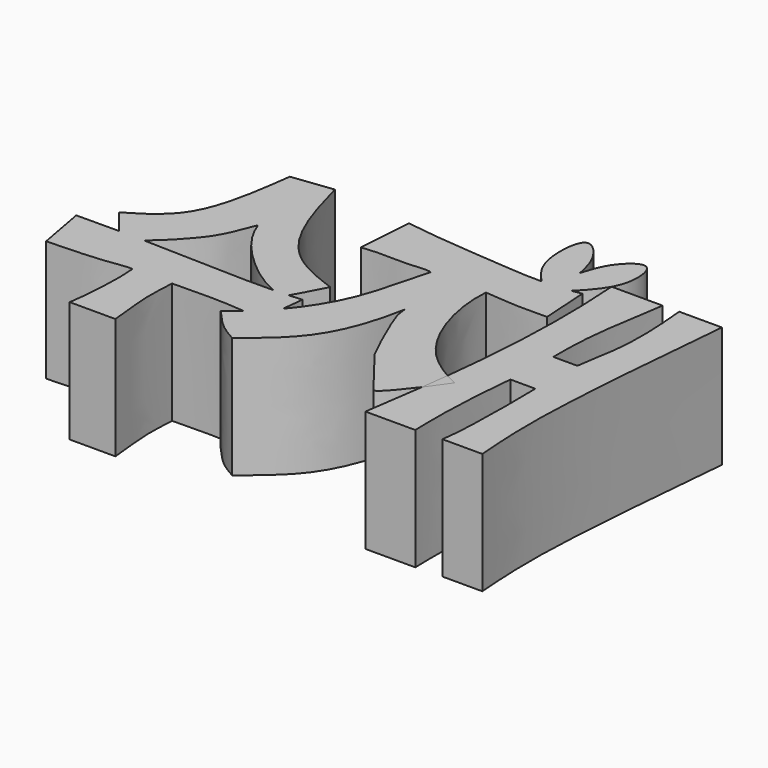
from build123d import *

# Parameters (mm, degrees)
F1_DEPTH = 17.78
F2_DEPTH = 17.78


with BuildPart() as f1:
    # F0 (on Top) → F1 (new body)
    with BuildSketch(Plane.XY):
        with BuildLine():
            add(Edge.make_bspline(
                [(30.1272850484, 24.53651838), (32.1749602214, 24.53651838), (35.4721196336, 24.5288582222), (37.0415447147, 24.5306448541), (37.63520873, 24.5306448541)],
                knots=[0, 0, 0, 0, 0.621748338, 1, 1, 1, 1], degree=3))
            add(Edge.make_bspline(
                [(30.1272850484, 24.53651838), (30.811116272, 15.0950465232), (30.3203895407, 5.2561454637), (29.3599372909, -3.3921086658), (29.2314145439, -4.4804229901)],
                knots=[0, 0, 0, 0, 0.5562786202, 0.6382430546, 0.6382430546, 0.6382430546, 0.6382430546], degree=3))
            add(Edge.make_bspline(
                [(29.2314145439, -4.4804229901), (29.780363465, -4.7892651681), (30.3633411367, -5.0912623112), (30.9840589762, -5.3905299865)],
                knots=[0.9246071669, 0.9246071669, 0.9246071669, 0.9246071669, 1, 1, 1, 1], degree=3))
            add(Edge.make_bspline(
                [(30.9840589762, -5.3905299865), (30.3043471664, -6.3817435511), (29.5085244613, -7.4958312117), (28.7172894958, -8.5481769485)],
                knots=[0, 0, 0, 0, 0.2536640393, 0.2536640393, 0.2536640393, 0.2536640393], degree=3))
            add(Edge.make_bspline(
                [(28.7172894958, -8.5481769485), (28.2863419012, -11.7642790395), (27.8368482552, -14.7278435364), (27.4477060884, -17.356655886)],
                knots=[0.7432613847, 0.7432613847, 0.7432613847, 0.7432613847, 1, 1, 1, 1], degree=3))
            add(Edge.make_bspline(
                [(27.4477060884, -17.356655886), (29.5677551255, -17.356655886), (31.7741736215, -17.356655886), (34.1498553388, -17.356655886), (34.7825475037, -17.356655886)],
                knots=[0, 0, 0, 0, 0.5717159331, 1, 1, 1, 1], degree=3))
            add(Edge.make_bspline(
                [(35.4626663029, -0.7367165526), (35.1330207393, -3.791788217), (34.6314573549, -10.6778341452), (34.7385927112, -16.0644711081), (34.7825475037, -17.356655886)],
                knots=[0, 0, 0, 0, 0.5615304049, 1, 1, 1, 1], degree=3))
            add(Edge.make_bspline(
                [(35.4626663029, -0.7367165526), (36.7133505642, -0.7367165526), (37.8787070513, -0.7367165526), (39.1293913126, -0.7367165526)],
                knots=[0, 0, 0, 0, 3.6667250097, 3.6667250097, 3.6667250097, 3.6667250097], degree=3))
            add(Edge.make_bspline(
                [(39.1293913126, -0.7367165526), (39.1914916961, -2.9337356019), (39.2133141662, -10.3080885174), (38.9353036042, -15.1444618657), (38.6552736163, -17.2017738223)],
                knots=[0, 0, 0, 0, 0.5336657709, 1, 1, 1, 1], degree=3))
            add(Edge.make_bspline(
                [(44.5176064968, -17.2017738223), (42.5022592147, -17.2017738223), (40.6706208984, -17.2017738223), (38.6552736163, -17.2017738223)],
                knots=[0, 0, 0, 0, 5.8623328805, 5.8623328805, 5.8623328805, 5.8623328805], degree=3))
            add(Edge.make_bspline(
                [(46.3429316878, 24.5404560119), (45.306609613, 13.2394284871), (43.6175321716, -4.9877859152), (44.2709598224, -14.0714566897), (44.5176064968, -17.2017738223)],
                knots=[0, 0, 0, 0, 0.6213566781, 1, 1, 1, 1], degree=3))
            add(Edge.make_bspline(
                [(40.0557033718, 24.5404560119), (42.1514461438, 24.5404560119), (44.2471889158, 24.5404560119), (46.3429316878, 24.5404560119)],
                knots=[0, 0, 0, 0, 6.2872283161, 6.2872283161, 6.2872283161, 6.2872283161], degree=3))
            add(Edge.make_bspline(
                [(39.3508151174, 6.7305080593), (39.5647616463, 8.8553203247), (40.8132079745, 13.7951512156), (40.4463631521, 20.6380142763), (40.0557033718, 24.5404560119)],
                knots=[0, 0, 0, 0, 0.4437567956, 1, 1, 1, 1], degree=3))
            add(Edge.make_bspline(
                [(35.7966199517, 6.7305080593), (37.3515238365, 6.7305080593), (37.7959112326, 6.7305080593), (39.3508151174, 6.7305080593)],
                knots=[0, 0, 0, 0, 3.5541951656, 3.5541951656, 3.5541951656, 3.5541951656], degree=3))
            add(Edge.make_bspline(
                [(37.63520873, 24.5306448541), (36.9642266283, 20.3846086374), (35.7862088633, 13.2144197203), (35.7945027483, 8.668127237), (35.7966199517, 6.7305080593)],
                knots=[0, 0, 0, 0, 0.5773275732, 1, 1, 1, 1], degree=3))
        make_face()
    extrude(amount=F1_DEPTH)


with BuildPart() as f1b:
    # F0 (on Top) → F1, piece 2 (new body)
    with BuildSketch(Plane.XY):
        with BuildLine():
            add(Edge.make_bspline(
                [(22.9997197935, 20.5607311229), (21.8643520208, 21.7671612932), (19.5707930826, 24.4397599996), (20.1568033566, 33.2643974162), (24.316272975, 28.9319082666), (24.864816953, 26.3222796366), (25.1532198865, 24.9495513026)],
                knots=[0, 0, 0, 0, 0.2657957689, 0.5473581741, 0.7603665256, 1, 1, 1, 1], degree=3))
            add(Edge.make_bspline(
                [(22.9997197935, 20.5607311229), (24.2767497098, 20.5816939502), (25.637388711, 20.671515774), (27.1643721818, 20.8693982873)],
                knots=[0.8000001159, 0.8000001159, 0.8000001159, 0.8000001159, 0.9536848019, 0.9536848019, 0.9536848019, 0.9536848019], degree=3))
            add(Edge.make_bspline(
                [(30.1272850484, 24.53651838), (29.3864561599, 23.1720667261), (28.2853627762, 21.9912698087), (27.1643721818, 20.8693982873)],
                knots=[0.7956426457, 0.7956426457, 0.7956426457, 0.7956426457, 1, 1, 1, 1], degree=3))
            add(Edge.make_bspline(
                [(25.1532198865, 24.9495513026), (25.5882914232, 26.3685695622), (26.4083703012, 29.061301626), (30.6803957253, 32.5194582175), (31.4140726968, 27.5422690203), (30.4650451142, 25.158601681), (30.1272850484, 24.53651838)],
                knots=[0, 0, 0, 0, 0.2440787862, 0.4592765496, 0.7024716659, 0.7956426457, 0.7956426457, 0.7956426457, 0.7956426457], degree=3))
        make_face()
        with BuildLine():
            add(Edge.make_bspline(
                [(2.1270404419, 22.3167211892), (7.1251042454, 21.5382039608), (14.8121815343, 21.0689982917), (20.6635132326, 20.5223815948), (22.9997197935, 20.5607311229)],
                knots=[0, 0, 0, 0, 0.5188483847, 0.8000001159, 0.8000001159, 0.8000001159, 0.8000001159], degree=3))
            add(Edge.make_bspline(
                [(2.1270404419, 22.3167211892), (1.9242271786, 19.6125391704), (1.7239165803, 16.9011404117), (1.5211033169, 14.1969583929)],
                knots=[0, 0, 0, 0, 8.1423404294, 8.1423404294, 8.1423404294, 8.1423404294], degree=3))
            add(Edge.make_bspline(
                [(1.5211033169, 14.1969583929), (4.367311452, 14.5447534044), (8.0800371714, 14.0486820153), (10.5993056978, 14.6787226066), (11.6617875174, 14.3997715786)],
                knots=[0, 0, 0, 0, 0.5878873191, 1, 1, 1, 1], degree=3))
            add(Edge.make_bspline(
                [(11.6617875174, 14.3997715786), (10.4663553016, 10.4233661169), (9.5923082938, 4.4477422371), (5.6462828988, -1.4688155198), (4.0827341983, -3.3198836639)],
                knots=[0, 0, 0, 0, 0.4823393198, 0.7379080988, 0.7379080988, 0.7379080988, 0.7379080988], degree=3))
            add(Edge.make_bspline(
                [(4.5740278438, -6.958249025), (4.419452015, -6.0852170326), (3.9740949058, -6.1434175976), (4.0092763041, -4.3297927321), (4.082734196, -3.3198836631)],
                knots=[0, 0, 0, 0, 0.3333747157, 0.658416056, 0.658416056, 0.658416056, 0.658416056], degree=3))
            add(Edge.make_bspline(
                [(0.9095052206, -6.5580439901), (2.1502910323, -6.6735018222), (3.3621594381, -6.8158754236), (4.5740278438, -6.958249025)],
                knots=[0.7270060703, 0.7270060703, 0.7270060703, 0.7270060703, 1, 1, 1, 1], degree=3))
            add(Edge.make_bspline(
                [(0.9095052165, -6.5580439803), (0.2284314514, -7.1524544945), (-0.46603873, -7.6981773109), (-1.1636908166, -8.1838443875)],
                knots=[0.9002166864, 0.9002166864, 0.9002166864, 0.9002166864, 1, 1, 1, 1], degree=3))
            add(Edge.make_bspline(
                [(-1.1636908166, -8.1838443875), (0.7968414575, -10.4147948635), (1.4997676481, -11.2263904884), (4.0717255324, -12.6299699768)],
                knots=[0, 0, 0, 0, 6.8685964435, 6.8685964435, 6.8685964435, 6.8685964435], degree=3))
            add(Edge.make_bspline(
                [(15.1096209884, 5.2731558681), (14.3114498251, 0.8357257031), (11.8446963594, -6.3046432304), (7.0377514361, -10.2447312292), (4.0717255324, -12.6299699768)],
                knots=[0, 0, 0, 0, 0.5219497134, 1, 1, 1, 1], degree=3))
            add(Edge.make_bspline(
                [(19.4002054632, -5.6091686711), (17.8599213122, -2.7050202189), (14.9657533393, 4.177525372), (15.3186405826, 4.0844337823), (15.1096209884, 5.2731558681)],
                knots=[0, 0, 0, 0, 0.7036638866, 1, 1, 1, 1], degree=3))
            add(Edge.make_bspline(
                [(24.7701666967, -12.5347407851), (22.3988490613, -9.5034350966), (21.8089376754, -8.6869927634), (19.4002054632, -5.6091686711)],
                knots=[0.0913803455, 0.0913803455, 0.0913803455, 0.0913803455, 8.8844771075, 8.8844771075, 8.8844771075, 8.8844771075], degree=3))
            add(Edge.make_bspline(
                [(24.8446781188, -12.6299699768), (24.8196458932, -12.5979843594), (24.7948100994, -12.5662429702), (24.7701666967, -12.5347407851)],
                knots=[0, 0, 0, 0, 0.0913803455, 0.0913803455, 0.0913803455, 0.0913803455], degree=3))
            add(Edge.make_bspline(
                [(28.7172894958, -8.5481769485), (26.97334449, -10.8676309313), (25.2516865756, -12.8871446376), (24.8446781188, -12.6299699768)],
                knots=[0.2536640393, 0.2536640393, 0.2536640393, 0.2536640393, 0.8127598248, 0.8127598248, 0.8127598248, 0.8127598248], degree=3))
            add(Edge.make_bspline(
                [(29.2314145439, -4.4804229901), (29.0667425816, -5.8748442862), (28.8935676013, -7.2326379111), (28.7172894958, -8.5481769485)],
                knots=[0.6382430546, 0.6382430546, 0.6382430546, 0.6382430546, 0.7432613847, 0.7432613847, 0.7432613847, 0.7432613847], degree=3))
            add(Edge.make_bspline(
                [(19.7561098941, 14.3997715786), (19.4401530406, 9.9336833065), (21.8013218503, 1.3896914759), (26.3209553964, -2.8429800375), (29.2314145439, -4.4804229901)],
                knots=[0, 0, 0, 0, 0.5248837096, 0.9246071669, 0.9246071669, 0.9246071669, 0.9246071669], degree=3))
            add(Edge.make_bspline(
                [(29.0252286941, 14.0444654971), (26.369634742, 14.0056241202), (25.009346241, 13.9850825551), (21.9340127746, 14.2134256329), (19.7561098941, 14.3997715786)],
                knots=[0, 0, 0, 0, 0.4861106295, 1, 1, 1, 1], degree=3))
            add(Edge.make_bspline(
                [(28.5924978404, 21.0788183989), (28.7953125783, 17.9014034403), (28.8224139561, 17.2218804558), (29.0252286941, 14.0444654971)],
                knots=[0, 0, 0, 0, 7.047650441, 7.047650441, 7.047650441, 7.047650441], degree=3))
            add(Edge.make_bspline(
                [(27.1643721818, 20.8693982873), (27.6245516819, 20.9290331673), (28.0998387387, 20.9984822178), (28.5924978404, 21.0788183989)],
                knots=[0.9536848019, 0.9536848019, 0.9536848019, 0.9536848019, 1, 1, 1, 1], degree=3))
            add(Edge.make_bspline(
                [(22.9997197935, 20.5607311229), (24.2767497098, 20.5816939502), (25.637388711, 20.671515774), (27.1643721818, 20.8693982873)],
                knots=[0.8000001159, 0.8000001159, 0.8000001159, 0.8000001159, 0.9536848019, 0.9536848019, 0.9536848019, 0.9536848019], degree=3))
        make_face()
        with BuildLine():
            add(Edge.make_bspline(
                [(2.1270404419, 22.3167211892), (7.1251042454, 21.5382039608), (14.8121815343, 21.0689982917), (20.6635132326, 20.5223815948), (22.9997197935, 20.5607311229)],
                knots=[0, 0, 0, 0, 0.5188483847, 0.8000001159, 0.8000001159, 0.8000001159, 0.8000001159], degree=3))
            add(Edge.make_bspline(
                [(2.1270404419, 22.3167211892), (1.9242271786, 19.6125391704), (1.7239165803, 16.9011404117), (1.5211033169, 14.1969583929)],
                knots=[0, 0, 0, 0, 8.1423404294, 8.1423404294, 8.1423404294, 8.1423404294], degree=3))
            add(Edge.make_bspline(
                [(1.5211033169, 14.1969583929), (4.367311452, 14.5447534044), (8.0800371714, 14.0486820153), (10.5993056978, 14.6787226066), (11.6617875174, 14.3997715786)],
                knots=[0, 0, 0, 0, 0.5878873191, 1, 1, 1, 1], degree=3))
            add(Edge.make_bspline(
                [(11.6617875174, 14.3997715786), (10.4663553016, 10.4233661169), (9.5923082938, 4.4477422371), (5.6462828988, -1.4688155198), (4.0827341983, -3.3198836639)],
                knots=[0, 0, 0, 0, 0.4823393198, 0.7379080988, 0.7379080988, 0.7379080988, 0.7379080988], degree=3))
            add(Edge.make_bspline(
                [(4.5740278438, -6.958249025), (4.419452015, -6.0852170326), (3.9740949058, -6.1434175976), (4.0092763041, -4.3297927321), (4.082734196, -3.3198836631)],
                knots=[0, 0, 0, 0, 0.3333747157, 0.658416056, 0.658416056, 0.658416056, 0.658416056], degree=3))
            add(Edge.make_bspline(
                [(0.9095052206, -6.5580439901), (2.1502910323, -6.6735018222), (3.3621594381, -6.8158754236), (4.5740278438, -6.958249025)],
                knots=[0.7270060703, 0.7270060703, 0.7270060703, 0.7270060703, 1, 1, 1, 1], degree=3))
            add(Edge.make_bspline(
                [(0.9095052165, -6.5580439803), (0.2284314514, -7.1524544945), (-0.46603873, -7.6981773109), (-1.1636908166, -8.1838443875)],
                knots=[0.9002166864, 0.9002166864, 0.9002166864, 0.9002166864, 1, 1, 1, 1], degree=3))
            add(Edge.make_bspline(
                [(-1.1636908166, -8.1838443875), (0.7968414575, -10.4147948635), (1.4997676481, -11.2263904884), (4.0717255324, -12.6299699768)],
                knots=[0, 0, 0, 0, 6.8685964435, 6.8685964435, 6.8685964435, 6.8685964435], degree=3))
            add(Edge.make_bspline(
                [(15.1096209884, 5.2731558681), (14.3114498251, 0.8357257031), (11.8446963594, -6.3046432304), (7.0377514361, -10.2447312292), (4.0717255324, -12.6299699768)],
                knots=[0, 0, 0, 0, 0.5219497134, 1, 1, 1, 1], degree=3))
            add(Edge.make_bspline(
                [(19.4002054632, -5.6091686711), (17.8599213122, -2.7050202189), (14.9657533393, 4.177525372), (15.3186405826, 4.0844337823), (15.1096209884, 5.2731558681)],
                knots=[0, 0, 0, 0, 0.7036638866, 1, 1, 1, 1], degree=3))
            add(Edge.make_bspline(
                [(24.7701666967, -12.5347407851), (22.3988490613, -9.5034350966), (21.8089376754, -8.6869927634), (19.4002054632, -5.6091686711)],
                knots=[0.0913803455, 0.0913803455, 0.0913803455, 0.0913803455, 8.8844771075, 8.8844771075, 8.8844771075, 8.8844771075], degree=3))
            add(Edge.make_bspline(
                [(24.8446781188, -12.6299699768), (24.8196458932, -12.5979843594), (24.7948100994, -12.5662429702), (24.7701666967, -12.5347407851)],
                knots=[0, 0, 0, 0, 0.0913803455, 0.0913803455, 0.0913803455, 0.0913803455], degree=3))
            add(Edge.make_bspline(
                [(28.7172894958, -8.5481769485), (26.97334449, -10.8676309313), (25.2516865756, -12.8871446376), (24.8446781188, -12.6299699768)],
                knots=[0.2536640393, 0.2536640393, 0.2536640393, 0.2536640393, 0.8127598248, 0.8127598248, 0.8127598248, 0.8127598248], degree=3))
            add(Edge.make_bspline(
                [(29.2314145439, -4.4804229901), (29.0667425816, -5.8748442862), (28.8935676013, -7.2326379111), (28.7172894958, -8.5481769485)],
                knots=[0.6382430546, 0.6382430546, 0.6382430546, 0.6382430546, 0.7432613847, 0.7432613847, 0.7432613847, 0.7432613847], degree=3))
            add(Edge.make_bspline(
                [(19.7561098941, 14.3997715786), (19.4401530406, 9.9336833065), (21.8013218503, 1.3896914759), (26.3209553964, -2.8429800375), (29.2314145439, -4.4804229901)],
                knots=[0, 0, 0, 0, 0.5248837096, 0.9246071669, 0.9246071669, 0.9246071669, 0.9246071669], degree=3))
            add(Edge.make_bspline(
                [(29.0252286941, 14.0444654971), (26.369634742, 14.0056241202), (25.009346241, 13.9850825551), (21.9340127746, 14.2134256329), (19.7561098941, 14.3997715786)],
                knots=[0, 0, 0, 0, 0.4861106295, 1, 1, 1, 1], degree=3))
            add(Edge.make_bspline(
                [(28.5924978404, 21.0788183989), (28.7953125783, 17.9014034403), (28.8224139561, 17.2218804558), (29.0252286941, 14.0444654971)],
                knots=[0, 0, 0, 0, 7.047650441, 7.047650441, 7.047650441, 7.047650441], degree=3))
            add(Edge.make_bspline(
                [(27.1643721818, 20.8693982873), (27.6245516819, 20.9290331673), (28.0998387387, 20.9984822178), (28.5924978404, 21.0788183989)],
                knots=[0.9536848019, 0.9536848019, 0.9536848019, 0.9536848019, 1, 1, 1, 1], degree=3))
            add(Edge.make_bspline(
                [(22.9997197935, 20.5607311229), (24.2767497098, 20.5816939502), (25.637388711, 20.671515774), (27.1643721818, 20.8693982873)],
                knots=[0.8000001159, 0.8000001159, 0.8000001159, 0.8000001159, 0.9536848019, 0.9536848019, 0.9536848019, 0.9536848019], degree=3))
        make_face()
        with BuildLine():
            add(Edge.make_bspline(
                [(2.5015018919, -0.2934567878), (1.7720885468, -0.3355964785), (1.0420749248, -0.3658277497), (0.3107363004, -0.3862577927)],
                knots=[0.0603862349, 0.0603862349, 0.0603862349, 0.0603862349, 0.1288972349, 0.1288972349, 0.1288972349, 0.1288972349], degree=3))
            add(Edge.make_bspline(
                [(4.9358094111, 4.2569693178), (3.9967783405, 2.4254256532), (3.0577472698, 0.5938819885), (2.5015018712, -0.2934567617)],
                knots=[0, 0, 0, 0, 0.6825658262, 0.6825658262, 0.6825658262, 0.6825658262], degree=3))
            add(Edge.make_bspline(
                [(-9.7766267136, 23.5519688576), (-8.1428863693, 17.5702566337), (-5.367630428, 6.9919931572), (5.0610487868, 4.4049582171), (4.9358094111, 4.2569693178)],
                knots=[0, 0, 0, 0, 0.5414996169, 0.9026301001, 0.9026301001, 0.9026301001, 0.9026301001], degree=3))
            add(Edge.make_bspline(
                [(-15.8063136041, 22.828405723), (-13.7964179739, 23.0695934345), (-11.7865223438, 23.3107811461), (-9.7766267136, 23.5519688576)],
                knots=[0, 0, 0, 0, 6.0729455463, 6.0729455463, 6.0729455463, 6.0729455463], degree=3))
            add(Edge.make_bspline(
                [(-25.5744066089, 3.6540005822), (-23.2239680653, 5.0487766546), (-17.7720988784, 8.283975768), (-16.5191082926, 17.5545884071), (-15.8063136041, 22.828405723)],
                knots=[0, 0, 0, 0, 0.4311252642, 1, 1, 1, 1], degree=3))
            add(Edge.make_bspline(
                [(-22.7073657487, 0.0280367439), (-23.6630460355, 1.2366913566), (-24.6187263222, 2.4453459694), (-25.5744066089, 3.6540005822)],
                knots=[1.9881896572, 1.9881896572, 1.9881896572, 1.9881896572, 6.6106929889, 6.6106929889, 6.6106929889, 6.6106929889], degree=3))
            add(Edge.make_bspline(
                [(-18.984562511, -0.0148056833), (-20.2231479919, 0.0056680402), (-21.4655065493, 0.0203967473), (-22.7073657487, 0.0280367439)],
                knots=[0.7106112537, 0.7106112537, 0.7106112537, 0.7106112537, 0.8184918039, 0.8184918039, 0.8184918039, 0.8184918039], degree=3))
            add(Edge.make_bspline(
                [(-11.1219985411, 11.1103216186), (-12.4733322404, 7.6443068614), (-13.2093505307, 5.6267736411), (-17.39664494, 1.2615401646), (-18.9845625072, -0.0148056929)],
                knots=[0, 0, 0, 0, 0.4744880978, 0.8067649227, 0.8067649227, 0.8067649227, 0.8067649227], degree=3))
            add(Edge.make_bspline(
                [(0.3107363004, -0.3862577927), (-2.3834061618, 0.8455829977), (-6.5983364176, 4.1633806212), (-10.0117703815, 8.1433807568), (-11.1219985411, 11.1103216186)],
                knots=[0.0818826264, 0.0818826264, 0.0818826264, 0.0818826264, 0.5143300502, 1, 1, 1, 1], degree=3))
        make_face()
        with BuildLine():
            add(Edge.make_bspline(
                [(-18.9845625072, -0.0148056929), (-19.90801353, -0.7570626663), (-20.7852412142, -1.3229377658), (-21.4742198586, -1.531530288)],
                knots=[0.8067649227, 0.8067649227, 0.8067649227, 0.8067649227, 1, 1, 1, 1], degree=3))
            add(Edge.make_bspline(
                [(-18.984562511, -0.0148056833), (-20.2231479919, 0.0056680402), (-21.4655065493, 0.0203967473), (-22.7073657487, 0.0280367439)],
                knots=[0.7106112537, 0.7106112537, 0.7106112537, 0.7106112537, 0.8184918039, 0.8184918039, 0.8184918039, 0.8184918039], degree=3))
            add(Edge.make_bspline(
                [(-21.4742198586, -1.531530288), (-21.8852684887, -1.0116746107), (-22.2963171187, -0.4918189334), (-22.7073657487, 0.0280367439)],
                knots=[0, 0, 0, 0, 1.9881896572, 1.9881896572, 1.9881896572, 1.9881896572], degree=3))
        make_face()
        with BuildLine():
            add(Edge.make_bspline(
                [(2.5015018712, -0.2934567617), (2.4673051081, -0.3480084274), (2.2195617167, -0.7336786697), (2.0596972797, -0.9025807654), (1.9209658494, -1.0491551366)],
                knots=[0.6825658262, 0.6825658262, 0.6825658262, 0.6825658262, 0.7245284957, 1, 1, 1, 1], degree=3))
            add(Edge.make_bspline(
                [(2.5015018919, -0.2934567878), (1.7720885468, -0.3355964785), (1.0420749248, -0.3658277497), (0.3107363004, -0.3862577927)],
                knots=[0.0603862349, 0.0603862349, 0.0603862349, 0.0603862349, 0.1288972349, 0.1288972349, 0.1288972349, 0.1288972349], degree=3))
            add(Edge.make_bspline(
                [(1.9209658494, -1.0491551366), (1.356405667, -0.8408852605), (0.8208641184, -0.6195031623), (0.3107363004, -0.3862577927)],
                knots=[0, 0, 0, 0, 0.0818826264, 0.0818826264, 0.0818826264, 0.0818826264], degree=3))
        make_face()
        with BuildLine():
            add(Edge.make_bspline(
                [(4.0827341983, -3.3198836639), (3.089743653, -4.4954742708), (2.0173469675, -5.5911695851), (0.9095052165, -6.5580439803)],
                knots=[0.7379080988, 0.7379080988, 0.7379080988, 0.7379080988, 0.9002166864, 0.9002166864, 0.9002166864, 0.9002166864], degree=3))
            add(Edge.make_bspline(
                [(4.082734196, -3.3198836631), (4.1599306425, -2.2585764381), (4.2990714594, -1.0707363435), (4.429334309, -0.1528326102)],
                knots=[0.658416056, 0.658416056, 0.658416056, 0.658416056, 1, 1, 1, 1], degree=3))
            add(Edge.make_bspline(
                [(4.429334309, -0.1528326102), (3.78685901, -0.2099207126), (3.1444136233, -0.2563144711), (2.5015018919, -0.2934567878)],
                knots=[0, 0, 0, 0, 0.0603862349, 0.0603862349, 0.0603862349, 0.0603862349], degree=3))
            add(Edge.make_bspline(
                [(2.5015018712, -0.2934567617), (2.4673051081, -0.3480084274), (2.2195617167, -0.7336786697), (2.0596972797, -0.9025807654), (1.9209658494, -1.0491551366)],
                knots=[0.6825658262, 0.6825658262, 0.6825658262, 0.6825658262, 0.7245284957, 1, 1, 1, 1], degree=3))
            add(Edge.make_bspline(
                [(1.9209658494, -1.0491551366), (1.356405667, -0.8408852605), (0.8208641184, -0.6195031623), (0.3107363004, -0.3862577927)],
                knots=[0, 0, 0, 0, 0.0818826264, 0.0818826264, 0.0818826264, 0.0818826264], degree=3))
            add(Edge.make_bspline(
                [(0.3107363004, -0.3862577927), (-3.5039586075, -0.4928218086), (-9.7722996587, -0.2322082141), (-16.4086946019, -0.0573845832), (-18.984562511, -0.0148056833)],
                knots=[0.1288972349, 0.1288972349, 0.1288972349, 0.1288972349, 0.4862536689, 0.7106112537, 0.7106112537, 0.7106112537, 0.7106112537], degree=3))
            add(Edge.make_bspline(
                [(-18.9845625072, -0.0148056929), (-19.90801353, -0.7570626663), (-20.7852412142, -1.3229377658), (-21.4742198586, -1.531530288)],
                knots=[0.8067649227, 0.8067649227, 0.8067649227, 0.8067649227, 1, 1, 1, 1], degree=3))
            add(Edge.make_bspline(
                [(-21.4742198586, -1.531530288), (-21.8852684887, -1.0116746107), (-22.2963171187, -0.4918189334), (-22.7073657487, 0.0280367439)],
                knots=[0, 0, 0, 0, 1.9881896572, 1.9881896572, 1.9881896572, 1.9881896572], degree=3))
            add(Edge.make_bspline(
                [(-22.7073657487, 0.0280367439), (-24.7967843032, 0.0408909794), (-26.884789285, 0.033678632), (-28.9510320872, 0)],
                knots=[0.8184918039, 0.8184918039, 0.8184918039, 0.8184918039, 1, 1, 1, 1], degree=3))
            add(Edge.make_bspline(
                [(-28.9510320872, 0), (-28.6294488857, -2.1706873473), (-27.9460841169, -5.0287490788), (-27.6245009154, -7.1994364262)],
                knots=[0, 0, 0, 0, 7.3206263259, 7.3206263259, 7.3206263259, 7.3206263259], degree=3))
            add(Edge.make_bspline(
                [(-27.6245009154, -7.1994364262), (-25.0194899735, -7.0487073499), (-20.3422058487, -7.075151756), (-16.8525078988, -6.3359671993), (-15.578327849, -6.3552805223)],
                knots=[0, 0, 0, 0, 0.5607066739, 1, 1, 1, 1], degree=3))
            add(Edge.make_bspline(
                [(-15.578327849, -6.3552805223), (-15.3107151815, -9.0901455386), (-15.6518634343, -14.0713332218), (-15.888616633, -16.1863513127), (-16.0475019366, -17.3223689198)],
                knots=[0, 0, 0, 0, 0.6057681289, 1, 1, 1, 1], degree=3))
            add(Edge.make_bspline(
                [(-16.0475019366, -17.3223689198), (-13.8768143952, -17.3223689198), (-11.5117225796, -17.3223689198), (-9.3410350382, -17.3223689198)],
                knots=[0, 0, 0, 0, 6.7064668983, 6.7064668983, 6.7064668983, 6.7064668983], degree=3))
            add(Edge.make_bspline(
                [(-9.3410350382, -17.3223689198), (-9.502525421, -15.0443039407), (-10.1006439615, -11.4379792548), (-9.8520671834, -7.9873378597), (-9.7766267136, -6.3552805223)],
                knots=[0, 0, 0, 0, 0.5251347751, 1, 1, 1, 1], degree=3))
            add(Edge.make_bspline(
                [(-9.7766267136, -6.3552805223), (-7.10198629, -6.2977805472), (-3.381393839, -6.2177944784), (-0.0194216617, -6.4716053132), (0.9095052206, -6.5580439901)],
                knots=[0, 0, 0, 0, 0.522626396, 0.7270060703, 0.7270060703, 0.7270060703, 0.7270060703], degree=3))
        make_face()
        with BuildLine():
            add(Edge.make_bspline(
                [(4.5740278438, -6.958249025), (4.419452015, -6.0852170326), (3.9740949058, -6.1434175976), (4.0092763041, -4.3297927321), (4.082734196, -3.3198836631)],
                knots=[0, 0, 0, 0, 0.3333747157, 0.658416056, 0.658416056, 0.658416056, 0.658416056], degree=3))
            add(Edge.make_bspline(
                [(4.0827341983, -3.3198836639), (3.089743653, -4.4954742708), (2.0173469675, -5.5911695851), (0.9095052165, -6.5580439803)],
                knots=[0.7379080988, 0.7379080988, 0.7379080988, 0.7379080988, 0.9002166864, 0.9002166864, 0.9002166864, 0.9002166864], degree=3))
            add(Edge.make_bspline(
                [(0.9095052206, -6.5580439901), (2.1502910323, -6.6735018222), (3.3621594381, -6.8158754236), (4.5740278438, -6.958249025)],
                knots=[0.7270060703, 0.7270060703, 0.7270060703, 0.7270060703, 1, 1, 1, 1], degree=3))
        make_face()
    extrude(amount=F1_DEPTH)


with BuildPart() as f2:
    # F0 (on Top) → F2 (new body)
    with BuildSketch(Plane.XY):
        with BuildLine():
            add(Edge.make_bspline(
                [(29.2314145439, -4.4804229901), (29.780363465, -4.7892651681), (30.3633411367, -5.0912623112), (30.9840589762, -5.3905299865)],
                knots=[0.9246071669, 0.9246071669, 0.9246071669, 0.9246071669, 1, 1, 1, 1], degree=3))
            add(Edge.make_bspline(
                [(29.2314145439, -4.4804229901), (29.0667425816, -5.8748442862), (28.8935676013, -7.2326379111), (28.7172894958, -8.5481769485)],
                knots=[0.6382430546, 0.6382430546, 0.6382430546, 0.6382430546, 0.7432613847, 0.7432613847, 0.7432613847, 0.7432613847], degree=3))
            add(Edge.make_bspline(
                [(30.9840589762, -5.3905299865), (30.3043471664, -6.3817435511), (29.5085244613, -7.4958312117), (28.7172894958, -8.5481769485)],
                knots=[0, 0, 0, 0, 0.2536640393, 0.2536640393, 0.2536640393, 0.2536640393], degree=3))
        make_face()
    extrude(amount=F2_DEPTH)


solid = Compound([f1.part, f1b.part, f2.part])
